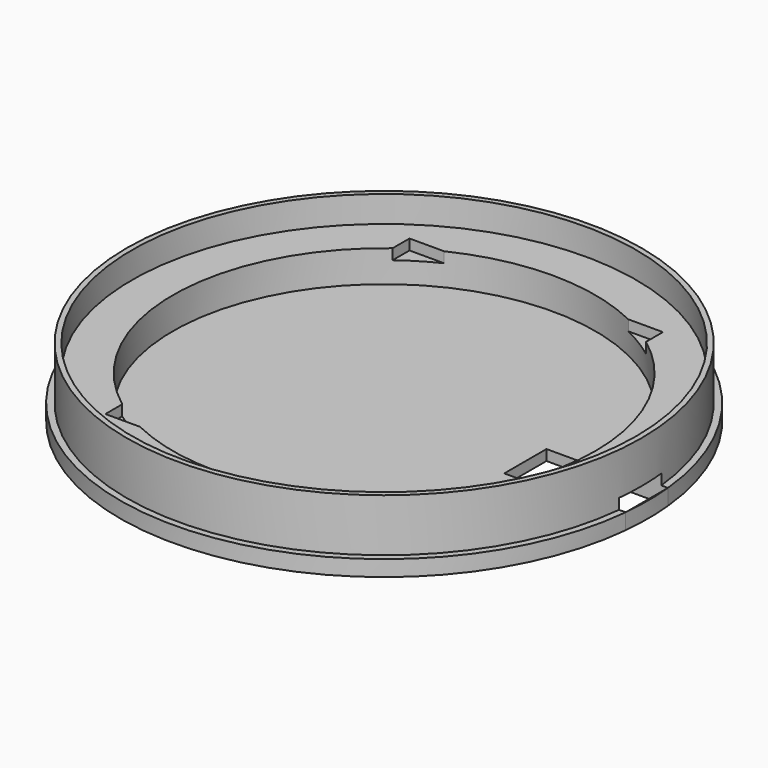
from build123d import *

# Parameters (mm, degrees)
F0_R      = 50
F1_DEPTH  = 3
F2_R      = 48.75
F3_DEPTH  = 10
F4_R      = 47.75
F5_DEPTH  = 5
F6_R      = 40
F7_DEPTH  = 6
F8_W      = 48
F8_H      = 72
F9_DEPTH  = 2
F10_W     = 23
F10_H     = 10
F11_DEPTH = 5


with BuildPart() as f1:
    # F0 (on Top) → F1 (new body)
    with BuildSketch(Plane.XY):
        Circle(F0_R)
    extrude(amount=F1_DEPTH)

    # F2 (on face) → F3 (join)
    with BuildSketch(Plane.XY.offset(3)):
        Circle(F2_R)
    extrude(amount=F3_DEPTH)

    # F4 (on face) → F5 (cut)
    with BuildSketch(Plane.XY.offset(13)):
        Circle(F4_R)
    extrude(amount=-F5_DEPTH, mode=Mode.SUBTRACT)

    # F6 (on face) → F7 (cut)
    with BuildSketch(Plane.XY.offset(8)):
        Circle(F6_R)
    extrude(amount=-F7_DEPTH, mode=Mode.SUBTRACT)

    # F8 (on face) → F9 (cut)
    with BuildSketch(Plane.XY.offset(8)):
        Rectangle(F8_W, F8_H)
    extrude(amount=-F9_DEPTH, mode=Mode.SUBTRACT)

    # F10 (on face) → F11 (cut)
    with BuildSketch(Plane(origin=(0, 0, 0), x_dir=(1, 0, 0), z_dir=(0, 0, -1))):
        with Locations((38.249372, 0)):
            Rectangle(F10_W, F10_H)
    extrude(amount=-F11_DEPTH, mode=Mode.SUBTRACT)


solid = f1.part
